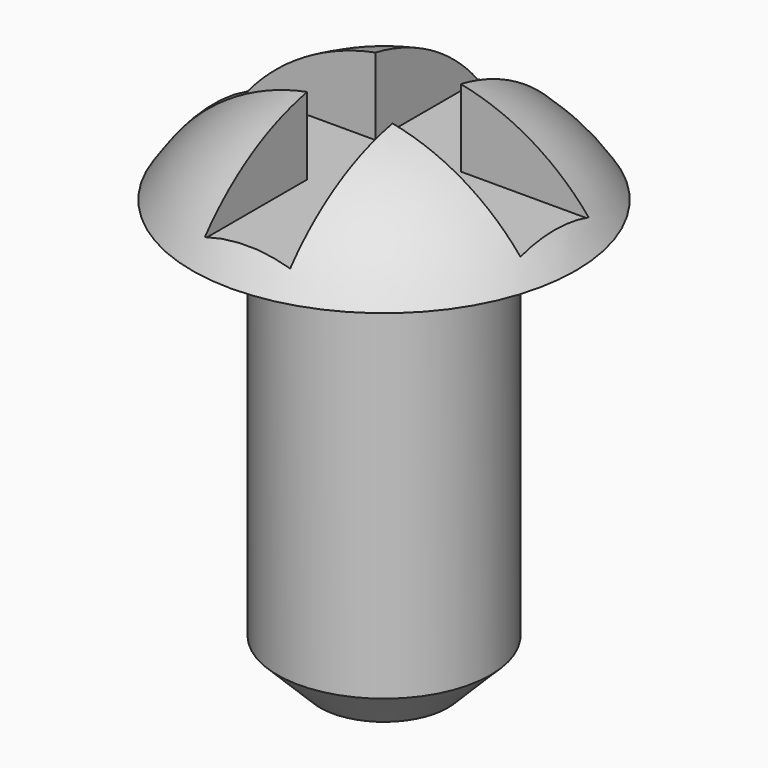
from build123d import *

# Parameters (mm, degrees)
F3_W     = 3.81
F3_H     = 2.54
F3_W_2   = 2.54
F3_H_2   = 3.81
F4_DEPTH = 6.1468
F5_SIZE  = 1.27


with BuildPart() as f1:
    # F0 (on Front) → F1 (revolve)
    with BuildSketch(Plane.XZ):
        with BuildLine():
            Line((0, 15.875), (0, 0))
            Line((0, 0), (3.175, 0))
            Line((3.175, 0), (3.175, 12.7))
            Line((3.175, 12.7), (5.715, 12.7))
            ThreePointArc((5.715, 12.7), (3.2688625698, 15.0279526256), (0, 15.875))
        make_face()
    revolve(axis=Axis((0, 0, 7.9375), (0, 0, -1)))

    # F3 (on offset) → F4 (cut)
    with BuildSketch(Plane(origin=(0, 0, 13.335), x_dir=(1, 0, 0), z_dir=(0, 0, -1))):
        with Locations((-3.175, 0)):
            Rectangle(F3_W, F3_H)
        Rectangle(F3_W_2, F3_H)
        with Locations((0, -3.175)):
            Rectangle(F3_W_2, F3_H_2)
        with Locations((3.175, 0)):
            Rectangle(F3_W, F3_H)
        with Locations((0, 3.175)):
            Rectangle(F3_W_2, F3_H_2)
    extrude(amount=-F4_DEPTH, mode=Mode.SUBTRACT)

    # F5
    f5_edges = [f1.edges().sort_by_distance(p)[0] for p in [
        (-3.175, 0, 0),
    ]]
    chamfer(f5_edges, length=F5_SIZE)


solid = f1.part
